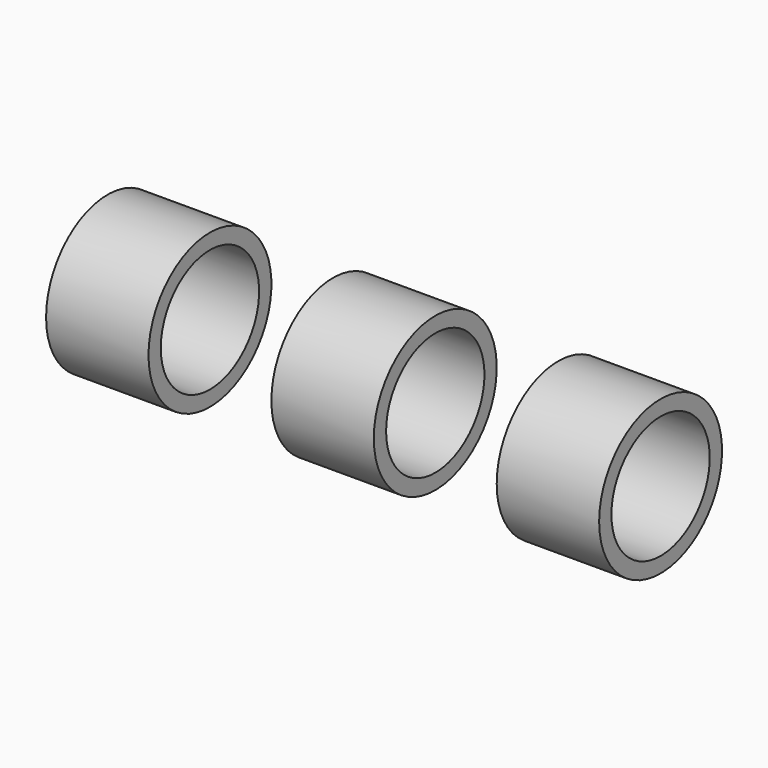
from build123d import *

# Parameters (mm, degrees)
TUBE001_R     = 7.5
TUBE001_R_2   = 6
TUBE001_DEPTH = 10
TUBE002_R     = 7.5
TUBE002_R_2   = 6
TUBE002_DEPTH = 10
TUBE_R        = 7.5
TUBE_R_2      = 6
TUBE_DEPTH    = 10


with BuildPart() as tube001:
    # Tube001 → Tube001 (new body)
    with BuildSketch(Plane(origin=(56, 24, 87.75), x_dir=(0, -1, 0), z_dir=(1, 0, 0))):
        Circle(TUBE001_R)
        Circle(TUBE001_R_2, mode=Mode.SUBTRACT)
    extrude(amount=TUBE001_DEPTH)


with BuildPart() as tube002:
    # Tube002 → Tube002 (new body)
    with BuildSketch(Plane(origin=(12, 24, 87.75), x_dir=(0, -1, 0), z_dir=(1, 0, 0))):
        Circle(TUBE002_R)
        Circle(TUBE002_R_2, mode=Mode.SUBTRACT)
    extrude(amount=TUBE002_DEPTH)


with BuildPart() as obj1:
    # Tube → Tube (new body)
    with BuildSketch(Plane(origin=(34, 24, 87.75), x_dir=(0, -1, 0), z_dir=(1, 0, 0))):
        Circle(TUBE_R)
        Circle(TUBE_R_2, mode=Mode.SUBTRACT)
    extrude(amount=TUBE_DEPTH)

    # Fusion044: union Tube001, Tube002
    add(tube001.part)
    add(tube002.part)


solid = obj1.part
